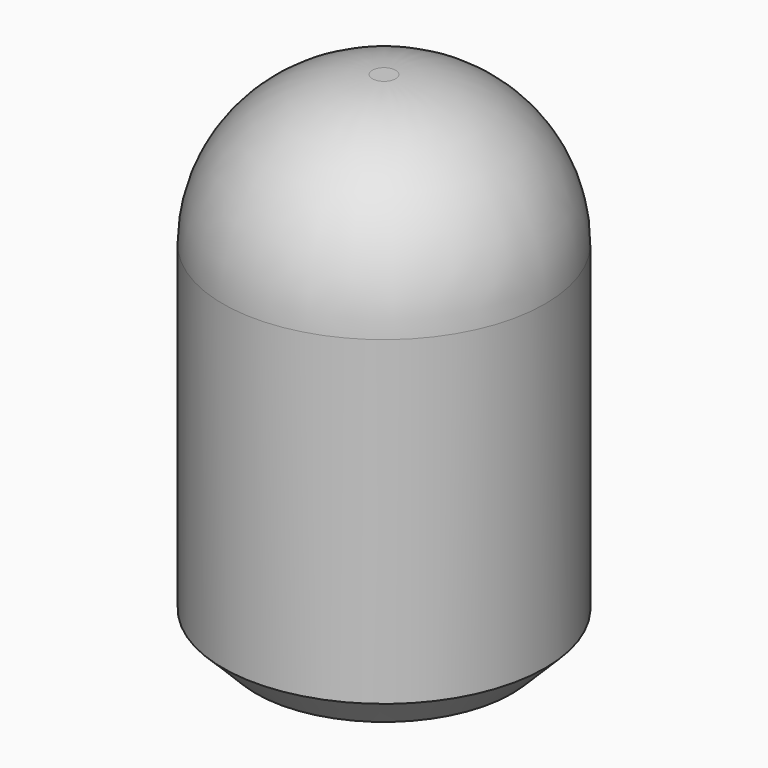
from build123d import *

# Parameters (mm, degrees)
F0_R     = 24.6407152677
F1_DEPTH = 51.562
F2_SIZE  = 5.08
F3_DEPTH = 25.4
F4_R     = 22.86


with BuildPart() as f1:
    # F0 (on Top) → F1 (new body)
    with BuildSketch(Plane.XY):
        Circle(F0_R)
    extrude(amount=F1_DEPTH)

    # F2
    f2_edges = [f1.edges().sort_by_distance(p)[0] for p in [
        (-24.640715, 0, 0),
    ]]
    chamfer(f2_edges, length=F2_SIZE)

    # F3 (add): a face of the model
    f3_faces = [f1.faces().sort_by_distance(p)[0] for p in [
        (0, 0, 51.562),
    ]]
    extrude(f3_faces, amount=F3_DEPTH)

    # F4
    f4_edges = [f1.edges().sort_by_distance(p)[0] for p in [
        (-24.640715, 0, 76.962),
    ]]
    fillet(f4_edges, radius=F4_R)


solid = f1.part
